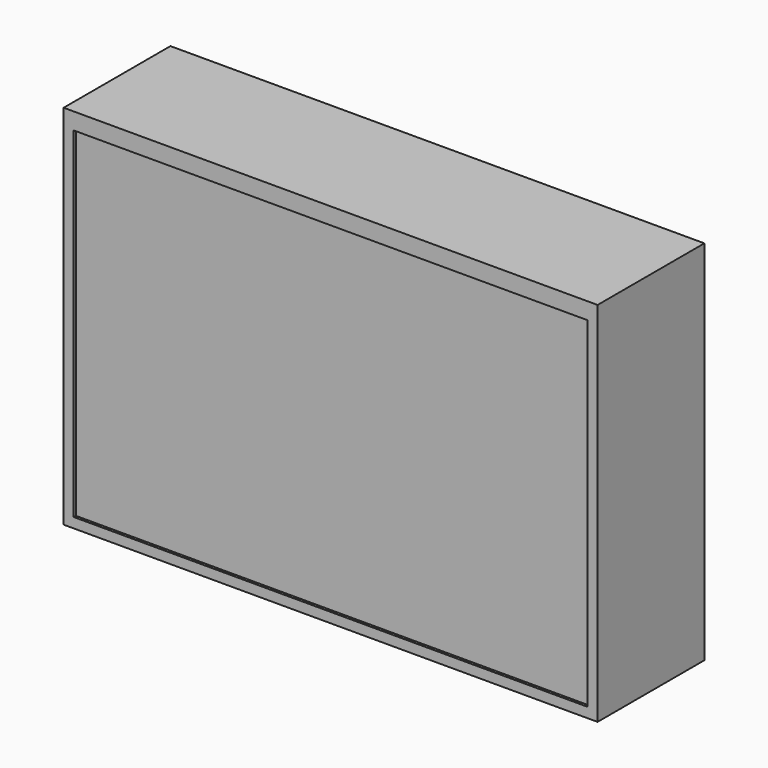
from build123d import *

# Parameters (mm, degrees)
F0_W     = 1600
F0_H     = 400
F1_DEPTH = 1100
F3_START = -50
F2_W     = 1540
F2_H     = 8
F3_DEPTH = 1020


with BuildPart() as f1:
    # F0 (on Top) → F1 (new body)
    with BuildSketch(Plane.XY):
        with Locations((800, -200)):
            Rectangle(F0_W, F0_H)
    extrude(amount=-F1_DEPTH)

    # F2 (on face) → F3 (cut)
    with BuildSketch(Plane.XY.offset(F3_START)):
        with Locations((800, -396)):
            Rectangle(F2_W, F2_H)
    extrude(amount=-F3_DEPTH, mode=Mode.SUBTRACT)


solid = f1.part
